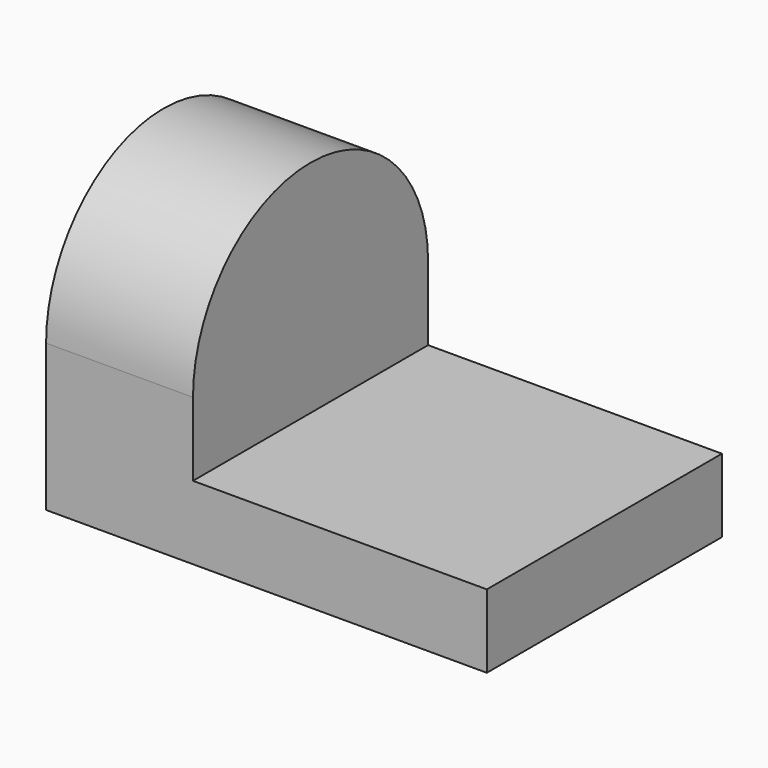
from build123d import *

# Parameters (mm, degrees)
F0_W     = 38.1
F0_H     = 6.35
F1_DEPTH = 25.4
F3_DEPTH = 12.7


with BuildPart() as f1:
    # F0 (on Front) → F1 (new body)
    with BuildSketch(Plane.XZ):
        with Locations((-19.05, 3.175)):
            Rectangle(F0_W, F0_H)
    extrude(amount=-F1_DEPTH)

    # F2 (on face) → F3 (join)
    with BuildSketch(Plane(origin=(-38.1, 0, 0), x_dir=(0, -1, 0), z_dir=(-1, 0, 0))):
        with BuildLine():
            Line((0, 0), (0, 12.7))
            ThreePointArc((0, 12.7), (-12.7, 25.4), (-25.4, 12.7))
            Line((-25.4, 12.7), (-25.4, 0))
            Line((-25.4, 0), (0, 0))
        make_face()
    extrude(amount=-F3_DEPTH)


solid = f1.part
